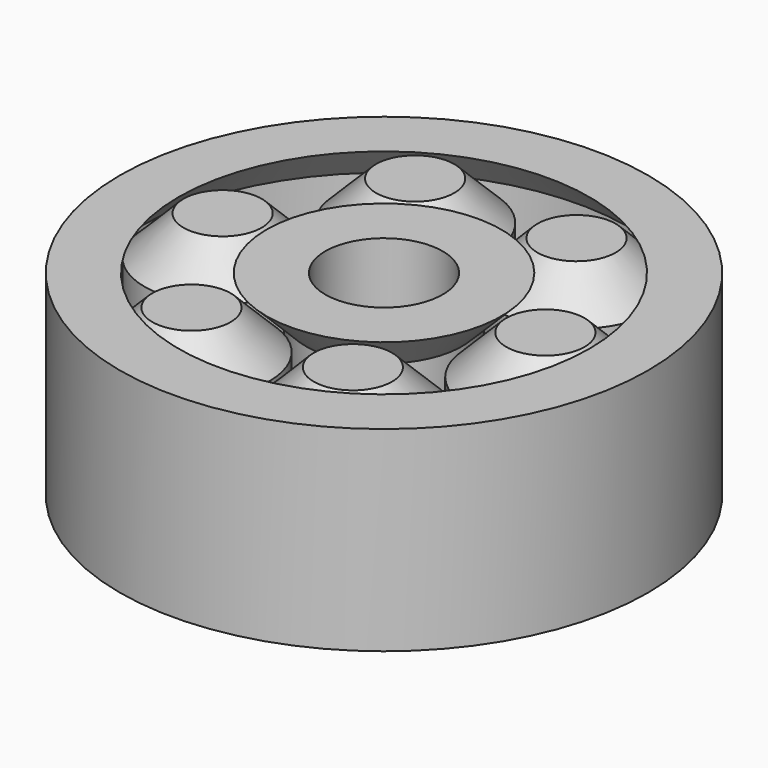
from build123d import *

# Parameters (mm, degrees)
CLONE_PLACEMENT_ANGLE    = 60
CLONE001_PLACEMENT_ANGLE = 60
CLONE002_PLACEMENT_ANGLE = 300
CLONE003_PLACEMENT_ANGLE = 60
CLONE004_PLACEMENT_ANGLE = 60


with BuildPart() as revolve_body:
    # Sketch001 → Revolve (revolve)
    with BuildSketch(Plane.XZ):
        Polygon((0, 5), (-2, 5), (-4, 3), (-4, -3), (-2, -5), (0, -5), align=None)
    revolve(axis=Axis((0, 0, 0), (0, 0, 1)))


with BuildPart() as revolve_body_1:
    # Revolve placement: moved
    add(revolve_body.part.moved(Location((-8.25, 0, 0))))


with BuildPart() as revolve001:
    # Clone base: copy of Revolve body
    add(revolve_body_1.part)


with BuildPart() as revolve001_1:
    # Clone placement: moved
    add(revolve001.part.moved(Location((0, 0, 0))).rotate(Axis((0, 0, 0), (0, 0, -1)), CLONE_PLACEMENT_ANGLE))


with BuildPart() as revolve002:
    # Clone001 base: copy of Revolve001
    add(revolve001_1.part)


with BuildPart() as revolve002_1:
    # Clone001 placement: moved
    add(revolve002.part.moved(Location((0, 0, 0))).rotate(Axis((0, 0, 0), (0, 0, -1)), CLONE001_PLACEMENT_ANGLE))


with BuildPart() as revolve003:
    # Clone002 base: copy of Revolve002
    add(revolve002_1.part)


with BuildPart() as revolve003_1:
    # Clone002 placement: moved
    add(revolve003.part.moved(Location((0, 0, 0))).rotate(Axis((0, 0, 0), (0, 0, 1)), CLONE002_PLACEMENT_ANGLE))


with BuildPart() as revolve004:
    # Clone003 base: copy of Revolve003
    add(revolve003_1.part)


with BuildPart() as revolve004_1:
    # Clone003 placement: moved
    add(revolve004.part.moved(Location((0, 0, 0))).rotate(Axis((0, 0, 0), (0, 0, -1)), CLONE003_PLACEMENT_ANGLE))


with BuildPart() as revolve005:
    # Clone004 base: copy of Revolve004
    add(revolve004_1.part)


with BuildPart() as revolve005_1:
    # Clone004 placement: moved
    add(revolve005.part.moved(Location((0, 0, 0))).rotate(Axis((0, 0, 0), (0, 0, -1)), CLONE004_PLACEMENT_ANGLE))


with BuildPart() as revolve006:
    # Sketch → Revolve001 (revolve)
    with BuildSketch(Plane(origin=(-8.25, 0, 0), x_dir=(1, 0, 0), z_dir=(0, -1, 0))):
        Polygon((-2.25, 5), (-4.25, 3), (-4.25, -3), (-2.25, -5), (-5.25, -5), (-5.25, 5), align=None)
    revolve(axis=Axis((0, 0, 0), (0, 0, 1)))


with BuildPart() as revolve007:
    # MirroredSketch → Revolve002 (revolve)
    with BuildSketch(Plane(origin=(-8.25, 0, 0), x_dir=(1, 0, 0), z_dir=(0, -1, 0))):
        Polygon((2.25, -5), (4.25, -3), (4.25, 3), (2.25, 5), (5.25, 5), (5.25, -5), align=None)
    revolve(axis=Axis((0, 0, 0), (0, 0, 1)))


solid = Compound([revolve_body_1.part, revolve001_1.part, revolve002_1.part, revolve003_1.part, revolve004_1.part, revolve005_1.part, revolve006.part, revolve007.part])
